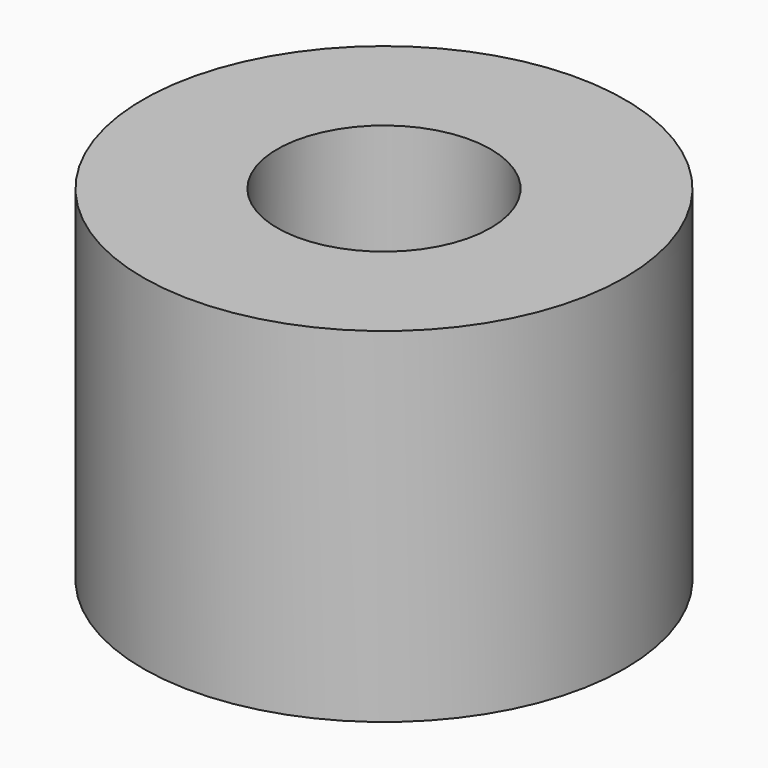
from build123d import *

# Parameters (mm, degrees)
SKETCH_R   = 3.5
SKETCH_R_2 = 1.55
PAD_DEPTH  = 5


with BuildPart() as part:
    # Sketch → Pad (new body)
    with BuildSketch(Plane.XY):
        Circle(SKETCH_R)
        Circle(SKETCH_R_2, mode=Mode.SUBTRACT)
    extrude(amount=PAD_DEPTH)


solid = part.part
